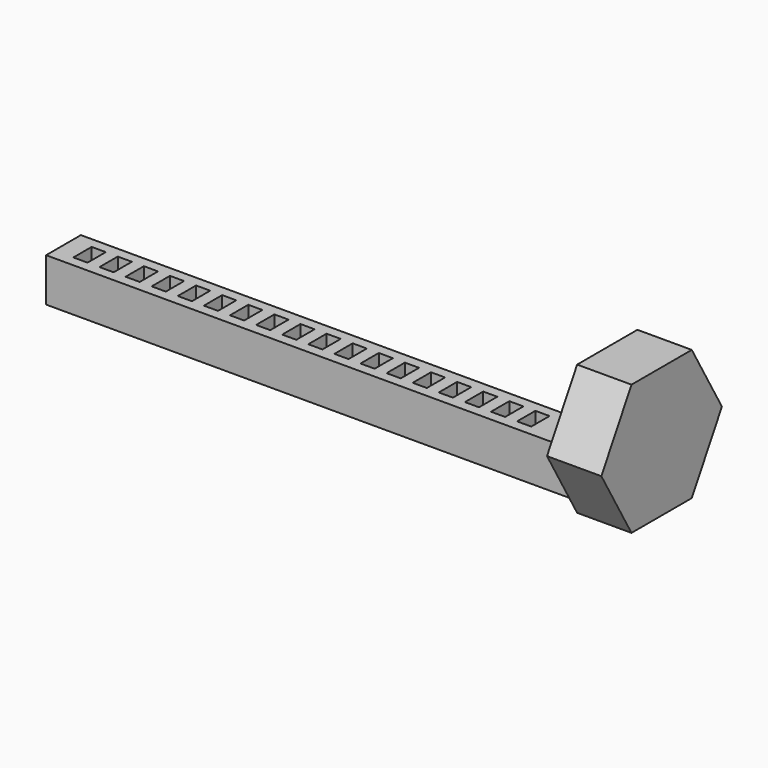
from build123d import *

# Parameters (mm, degrees)
F1_DEPTH = 25
F2_W     = 250
F2_H     = 20
F3_DEPTH = 20
F4_W     = 6.5
F4_H     = 10.5
F5_DEPTH = 100
F6_W     = 28.428983
F6_H     = 14.421839
F7_DEPTH = 20


with BuildPart() as f1:
    # F0 (on Right) → F1 (new body)
    with BuildSketch(Plane.YZ):
        Polygon((-17.320508, 0), (17.320508, 0), (34.641016, 30), (17.320508, 60), (-17.320508, 60), (-34.641016, 30), align=None)
    extrude(amount=F1_DEPTH)

    # F2 (on Top) → F3 (join)
    with BuildSketch(Plane.XY):
        with Locations((-125, 0)):
            Rectangle(F2_W, F2_H)
    extrude(amount=F3_DEPTH)

    # F4 (on face) → F5 (cut)
    with BuildSketch(Plane.XY.offset(20)):
        with Locations((-10, 0)):
            Rectangle(F4_W, F4_H)
        with Locations((-22, 0)):
            Rectangle(F4_W, F4_H)
        with Locations((-34, 0)):
            Rectangle(F4_W, F4_H)
        with Locations((-46, 0)):
            Rectangle(F4_W, F4_H)
        with Locations((-58, 0)):
            Rectangle(F4_W, F4_H)
        with Locations((-70, 0)):
            Rectangle(F4_W, F4_H)
        with Locations((-82, 0)):
            Rectangle(F4_W, F4_H)
        with Locations((-94, 0)):
            Rectangle(F4_W, F4_H)
        with Locations((-106, 0)):
            Rectangle(F4_W, F4_H)
        with Locations((-118, 0)):
            Rectangle(F4_W, F4_H)
        with Locations((-130, 0)):
            Rectangle(F4_W, F4_H)
        with Locations((-142, 0)):
            Rectangle(F4_W, F4_H)
        with Locations((-154, 0)):
            Rectangle(F4_W, F4_H)
        with Locations((-166, 0)):
            Rectangle(F4_W, F4_H)
        with Locations((-178, 0)):
            Rectangle(F4_W, F4_H)
        with Locations((-190, 0)):
            Rectangle(F4_W, F4_H)
        with Locations((-202, 0)):
            Rectangle(F4_W, F4_H)
        with Locations((-214, 0)):
            Rectangle(F4_W, F4_H)
        with Locations((-226, 0)):
            Rectangle(F4_W, F4_H)
        with Locations((-238, 0)):
            Rectangle(F4_W, F4_H)
    extrude(amount=-F5_DEPTH, mode=Mode.SUBTRACT)

    # F6 (on Top) → F7 (join)
    with BuildSketch(Plane.XY):
        with Locations((-14.214491, 0.158192)):
            Rectangle(F6_W, F6_H)
    extrude(amount=F7_DEPTH)


solid = f1.part
